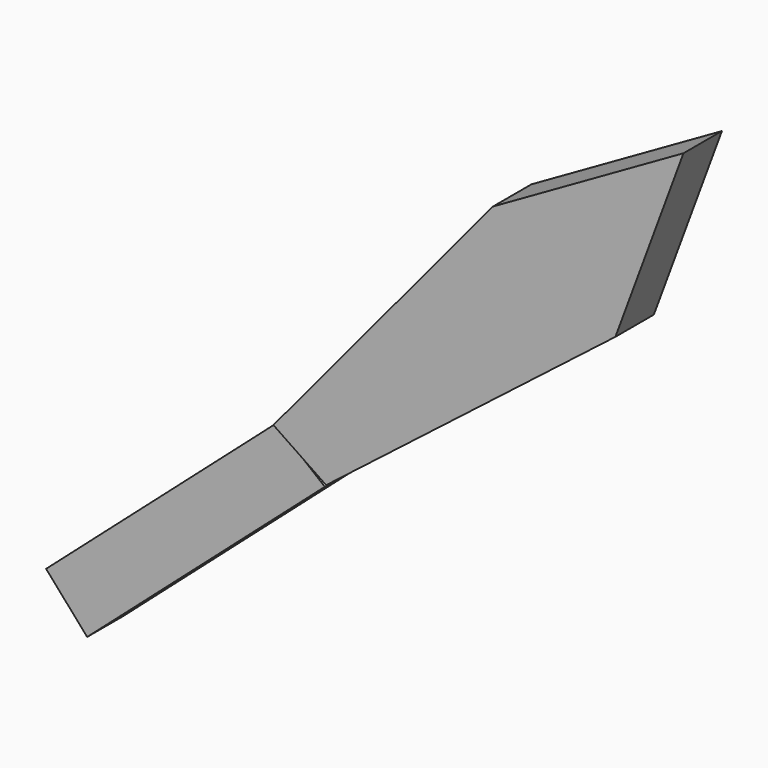
from build123d import *

# Parameters (mm, degrees)
F1_DEPTH = 3.81
F3_DEPTH = 4.064


with BuildPart() as f1:
    # F0 (on Front) → F1 (new body)
    with BuildSketch(Plane.XZ):
        Polygon((4.143255, -3.353205), (0, 0), (-19.42689, -17.124442), (-15.951874, -21.066688), align=None)
    extrude(amount=F1_DEPTH)


with BuildPart() as f3:
    # F2 (on Front) → F3 (new body)
    with BuildSketch(Plane.XZ):
        Polygon((18.56347, 22.304947), (0, 0), (4.460991, -3.02196), (28.92448, 15.97322), (34.680594, 31.51473), align=None)
    extrude(amount=F3_DEPTH)


solid = Compound([f1.part, f3.part])
